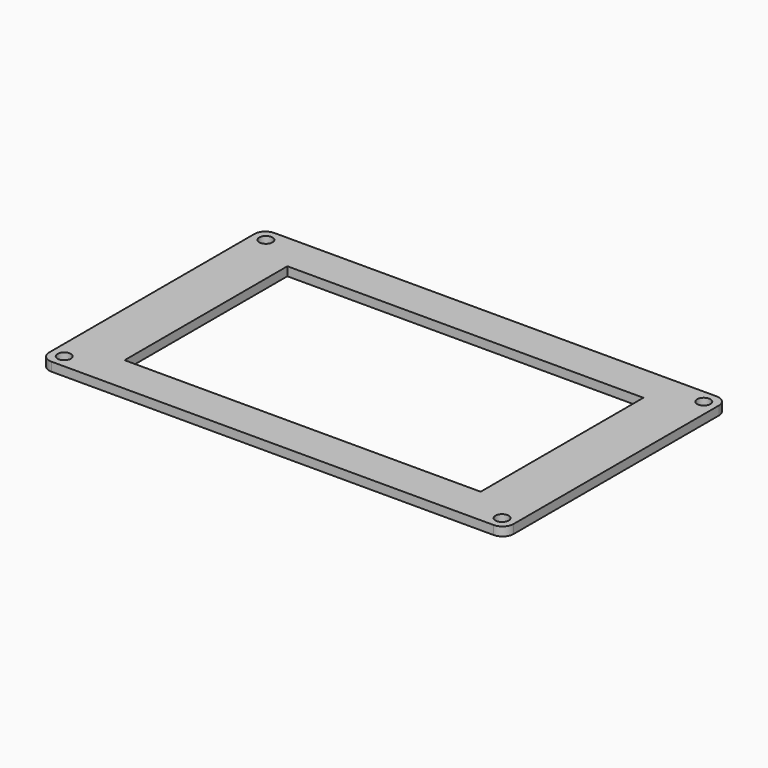
from build123d import *

# Parameters (mm, degrees)
F1_R     = 3
F1_W     = 161
F1_H     = 92
F2_DEPTH = 4


with BuildPart() as f2:
    # F1 (on Top) → F2 (new body)
    with BuildSketch(Plane.XY):
        with BuildLine():
            ThreePointArc((105, 58), (103.535534, 61.535534), (100, 63))
            Line((100, 63), (-100, 63))
            ThreePointArc((-100, 63), (-103.535534, 61.535534), (-105, 58))
            Line((-105, 58), (-105, -58))
            ThreePointArc((-105, -58), (-103.535534, -61.535534), (-100, -63))
            Line((-100, -63), (100, -63))
            ThreePointArc((100, -63), (103.535534, -61.535534), (105, -58))
            Line((105, -58), (105, 58))
        make_face()
        with Locations((-99, -57)):
            Circle(F1_R, mode=Mode.SUBTRACT)
        with Locations((99, -57)):
            Circle(F1_R, mode=Mode.SUBTRACT)
        with Locations((-99, 57)):
            Circle(F1_R, mode=Mode.SUBTRACT)
        Rectangle(F1_W, F1_H, mode=Mode.SUBTRACT)
        with Locations((99, 57)):
            Circle(F1_R, mode=Mode.SUBTRACT)
    extrude(amount=F2_DEPTH)


solid = f2.part
